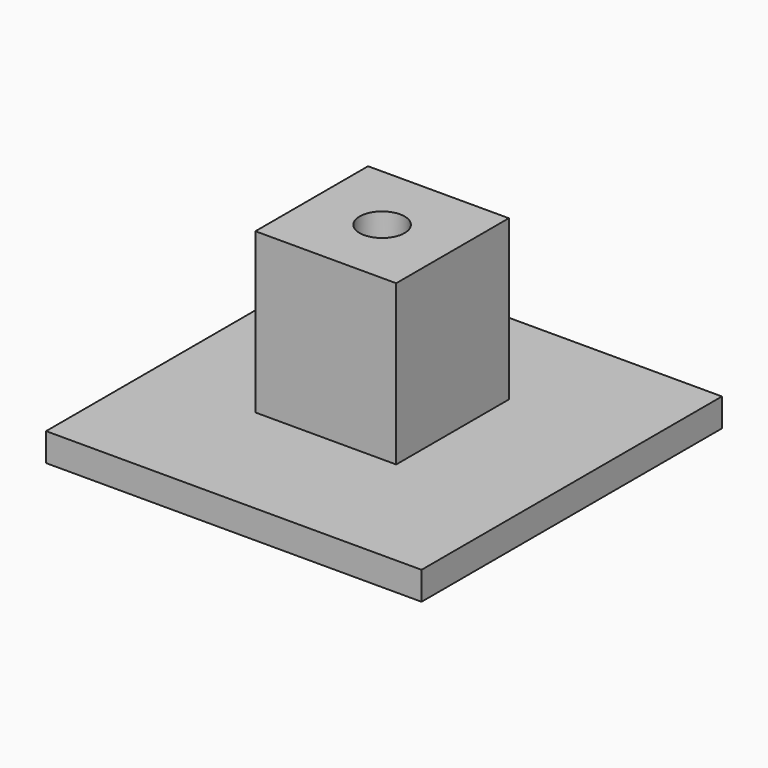
from build123d import *

# Parameters (mm, degrees)
BOX049_W          = 4.5
BOX049_H          = 4.5
BOX049_DEPTH      = 10
BOX048_W          = 20
BOX048_H          = 20
BOX048_DEPTH      = 1.5
CYLINDER034_R     = 1.2
CYLINDER034_DEPTH = 10
BOX047_W          = 4.5
BOX047_H          = 4.5
BOX047_DEPTH      = 10
BOX046_W          = 7.5
BOX046_H          = 7.5
BOX046_DEPTH      = 10


with BuildPart() as cube049:
    # Box049 → Box049 (new body)
    with BuildSketch(Plane(origin=(205.25, 34.25, -5), x_dir=(1, 0, 0), z_dir=(0, 0, 1))):
        with Locations((2.25, 2.25)):
            Rectangle(BOX049_W, BOX049_H)
    extrude(amount=BOX049_DEPTH)


with BuildPart() as cut057:
    # Box048 → Box048 (new body)
    with BuildSketch(Plane(origin=(198, 26, 0), x_dir=(1, 0, 0), z_dir=(0, 0, 1))):
        with Locations((10, 10)):
            Rectangle(BOX048_W, BOX048_H)
    extrude(amount=BOX048_DEPTH)

    # Cut057: cut Cube049
    add(cube049.part, mode=Mode.SUBTRACT)


with BuildPart() as cylinder034:
    # Cylinder034 → Cylinder034 (new body)
    with BuildSketch(Plane(origin=(7.5, 16.5, 105), x_dir=(1, 0, 0), z_dir=(0, 0, 1))):
        Circle(CYLINDER034_R)
    extrude(amount=CYLINDER034_DEPTH)


with BuildPart() as cube047:
    # Box047 → Box047 (new body)
    with BuildSketch(Plane(origin=(5.25, 14.25, 98.5), x_dir=(1, 0, 0), z_dir=(0, 0, 1))):
        with Locations((2.25, 2.25)):
            Rectangle(BOX047_W, BOX047_H)
    extrude(amount=BOX047_DEPTH)


with BuildPart() as testpcbmount:
    # Box046 → Box046 (new body)
    with BuildSketch(Plane(origin=(3.75, 12.75, 100), x_dir=(1, 0, 0), z_dir=(0, 0, 1))):
        with Locations((3.75, 3.75)):
            Rectangle(BOX046_W, BOX046_H)
    extrude(amount=BOX046_DEPTH)

    # Cut055: cut Cube047
    add(cube047.part, mode=Mode.SUBTRACT)

    # Cut056: cut Cylinder034
    add(cylinder034.part, mode=Mode.SUBTRACT)


with BuildPart() as testpcbmount_1:
    # Cut056 placement: moved
    add(testpcbmount.part.moved(Location((200, 20, -100))))

    # Connect006: union Cut057
    add(cut057.part)


solid = testpcbmount_1.part
